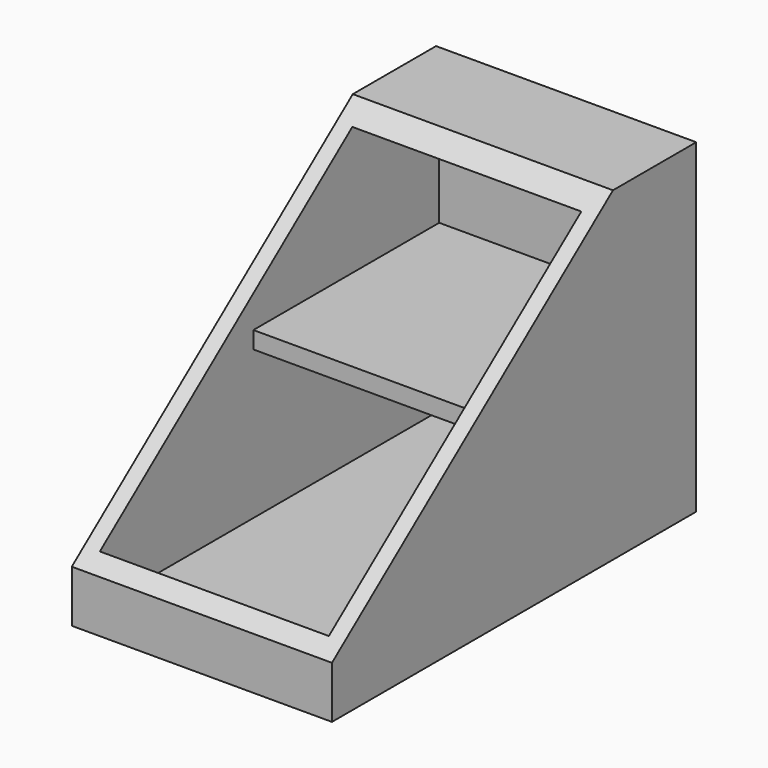
from build123d import *

# Parameters (mm, degrees)
F1_DEPTH = 100
F2_T     = -12
F4_W     = 187.6861900091
F4_H     = 13.1353894249
F5_DEPTH = 200


with BuildPart() as f1:
    # F0 (on Right) → F1 (new body, symmetric)
    with BuildSketch(Plane.YZ):
        Polygon((-193.7253567732, -86.0714143496), (-193.7253567732, -126.0714143496), (156.2746432268, -126.0714143496), (156.2746432268, 123.9285856504), (76.2746432268, 123.9285856504), align=None)
    extrude(amount=F1_DEPTH, both=True)

    # F2
    f2_openings = [f1.faces().sort_by_distance(p)[0] for p in [
        (0, -58.725357, 18.928586),
    ]]
    offset(amount=F2_T, openings=f2_openings)

    # F4 (on face) → F5 (join)
    with BuildSketch(Plane.YZ.offset(100)):
        with Locations((59.6075579524, 6.5676947124)):
            Rectangle(F4_W, F4_H)
        with Locations((59.6075579524, 6.5676947124)):
            Rectangle(F4_W, F4_H)
    extrude(amount=-F5_DEPTH)


solid = f1.part
